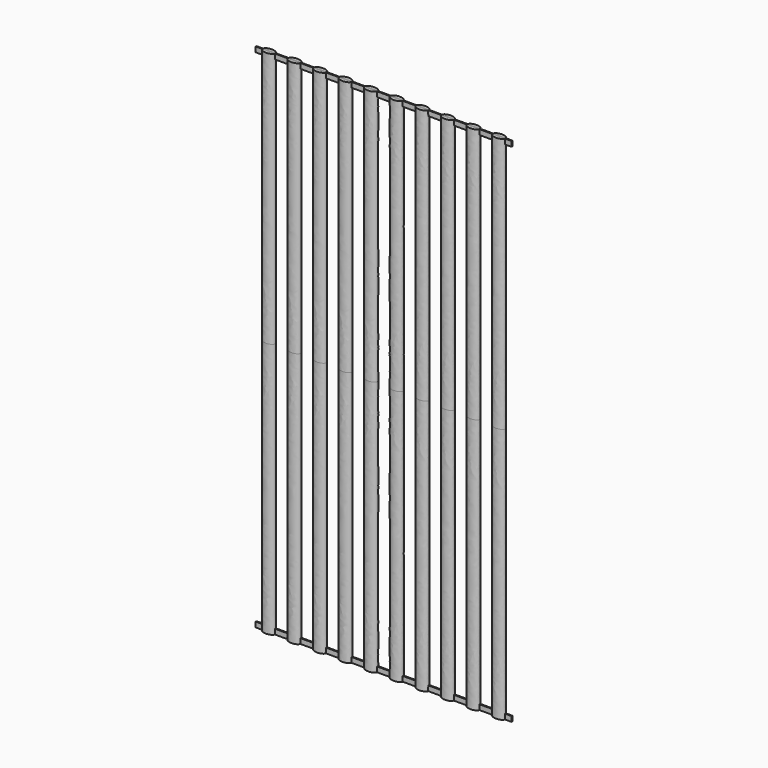
from build123d import *

# Parameters (mm, degrees)
F1_DEPTH = 100
F3_W     = 100
F3_H     = 2
F4_DEPTH = 0.2


with BuildPart() as f1:
    # F0 (on Top) → F1 (new body, symmetric)
    with BuildSketch(Plane.XY):
        with BuildLine():
            add(Edge.make_bspline(
                [(-42.5, 0), (-42.5, 2.511474), (-46.25, 1.255737), (-50, 0), (-46.25, -1.255737), (-42.5, -2.511474), (-42.5, 0)],
                knots=[0, 0, 0, 2.094395, 2.094395, 4.18879, 4.18879, 6.283185, 6.283185, 6.283185], degree=2, weights=[1, 0.5, 1, 0.5, 1, 0.5, 1]))
        make_face()
        with BuildLine():
            add(Edge.make_bspline(
                [(-32.5, 0), (-32.5, 2.511474), (-36.25, 1.255737), (-40, 0), (-36.25, -1.255737), (-32.5, -2.511474), (-32.5, 0)],
                knots=[0, 0, 0, 2.094395, 2.094395, 4.18879, 4.18879, 6.283185, 6.283185, 6.283185], degree=2, weights=[1, 0.5, 1, 0.5, 1, 0.5, 1]))
        make_face()
        with BuildLine():
            add(Edge.make_bspline(
                [(-22.5, 0), (-22.5, 2.511474), (-26.25, 1.255737), (-30, 0), (-26.25, -1.255737), (-22.5, -2.511474), (-22.5, 0)],
                knots=[0, 0, 0, 2.094395, 2.094395, 4.18879, 4.18879, 6.283185, 6.283185, 6.283185], degree=2, weights=[1, 0.5, 1, 0.5, 1, 0.5, 1]))
        make_face()
        with BuildLine():
            add(Edge.make_bspline(
                [(-12.5, 0), (-12.5, 2.511474), (-16.25, 1.255737), (-20, 0), (-16.25, -1.255737), (-12.5, -2.511474), (-12.5, 0)],
                knots=[0, 0, 0, 2.094395, 2.094395, 4.18879, 4.18879, 6.283185, 6.283185, 6.283185], degree=2, weights=[1, 0.5, 1, 0.5, 1, 0.5, 1]))
        make_face()
        with BuildLine():
            add(Edge.make_bspline(
                [(-2.5, 0), (-2.5, 2.511474), (-6.25, 1.255737), (-10, 0), (-6.25, -1.255737), (-2.5, -2.511474), (-2.5, 0)],
                knots=[0, 0, 0, 2.094395, 2.094395, 4.18879, 4.18879, 6.283185, 6.283185, 6.283185], degree=2, weights=[1, 0.5, 1, 0.5, 1, 0.5, 1]))
        make_face()
    extrude(amount=F1_DEPTH, both=True)


with BuildPart() as f2_1:
    # F2: instance of F1
    add(f1.part.mirror(Plane.YZ))


with BuildPart() as f4:
    # F3 (on Front) → F4 (new body, symmetric)
    with BuildSketch(Plane.XZ):
        with Locations((0, 99)):
            Rectangle(F3_W, F3_H)
        with Locations((0, -99)):
            Rectangle(F3_W, F3_H)
    extrude(amount=F4_DEPTH, both=True)


solid = Compound([f1.part, f2_1.part, f4.part])
